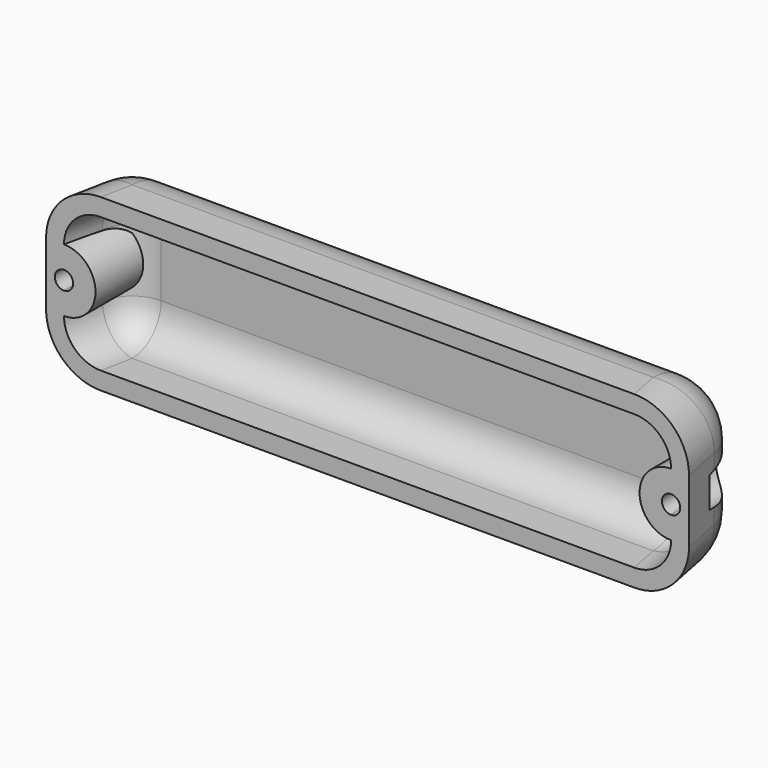
from build123d import *

# Parameters (mm, degrees)
F1_DEPTH = 40
F2_R     = 12.6
F3_T     = -4.129
F5_DEPTH = 14
F6_DEPTH = 20.001
F7_R     = 4.4681980282
F8_DEPTH = 12


with BuildPart() as f1:
    # F0 (on Top) → F1 (new body)
    with BuildSketch(Plane.XY):
        Polygon((-75.5, -10), (75.5, -10), (71.5217526524, 10), (-71.5217526524, 10), align=None)
    extrude(amount=F1_DEPTH)

    # F2
    f2_edges = [f1.edges().sort_by_distance(p)[0] for p in [
        (-71.521753, 10, 20),
        (0, 10, 40),
        (0, 10, 0),
        (71.521753, 10, 20),
        (-73.510876, 0, 40),
        (-73.510876, 0, 0),
        (73.510876, 0, 40),
        (73.510876, 0, 0),
    ]]
    fillet(f2_edges, radius=F2_R)

    # F3
    f3_openings = [f1.faces().sort_by_distance(p)[0] for p in [
        (0, -10, 20),
    ]]
    offset(amount=F3_T, openings=f3_openings)

    # F4 (on face) → F5 (join)
    with BuildSketch(Plane.XZ.offset(10)):
        with BuildLine():
            ThreePointArc((-71.2901081078, 22.15), (-69.7698285282, 21.5202795796), (-69.1401081078, 20))
            ThreePointArc((-69.1401081078, 20), (-69.7698285282, 18.4797204204), (-71.2901081078, 17.85))
            Line((-71.2901081078, 17.85), (-71.2901081078, 12.6))
            ThreePointArc((-71.2901081078, 12.6), (-63.8901081078, 20), (-71.2901081078, 27.4))
            Line((-71.2901081078, 27.4), (-71.2901081078, 22.15))
        make_face()
        with BuildLine():
            Line((71.2901081078, 22.15), (71.2901081078, 27.4))
            ThreePointArc((71.2901081078, 27.4), (63.8901081078, 20), (71.2901081078, 12.6))
            Line((71.2901081078, 12.6), (71.2901081078, 17.85))
            ThreePointArc((71.2901081078, 17.85), (69.1401081078, 20), (71.2901081078, 22.15))
        make_face()
    extrude(amount=-F5_DEPTH)

    # F4 (on face) → F6 (cut, through all)
    with BuildSketch(Plane.XZ.offset(10)):
        with BuildLine():
            ThreePointArc((-71.2901081078, 17.85), (-69.7698285282, 18.4797204204), (-69.1401081078, 20))
            ThreePointArc((-69.1401081078, 20), (-69.7698285282, 21.5202795796), (-71.2901081078, 22.15))
            Line((-71.2901081078, 22.15), (-71.2901081078, 17.85))
        make_face()
        with BuildLine():
            Line((-71.2901081078, 17.85), (-71.2901081078, 22.15))
            ThreePointArc((-71.2901081078, 22.15), (-73.4401081078, 20), (-71.2901081078, 17.85))
        make_face()
        with BuildLine():
            ThreePointArc((73.4401081078, 20), (72.8103876873, 21.5202795796), (71.2901081078, 22.15))
            Line((71.2901081078, 22.15), (71.2901081078, 17.85))
            ThreePointArc((71.2901081078, 17.85), (72.8103876873, 18.4797204204), (73.4401081078, 20))
        make_face()
        with BuildLine():
            Line((71.2901081078, 17.85), (71.2901081078, 22.15))
            ThreePointArc((71.2901081078, 22.15), (69.1401081078, 20), (71.2901081078, 17.85))
        make_face()
    extrude(amount=-F6_DEPTH, mode=Mode.SUBTRACT)

    # F7 (on face) → F8 (cut)
    with BuildSketch(Plane(origin=(0, 10, 0), x_dir=(-1, 0, 0), z_dir=(0, 1, 0))):
        with Locations((71.2666511536, 20.0136322528)):
            Circle(F7_R)
        with Locations((-71.2666511536, 20.0136322528)):
            Circle(F7_R)
    extrude(amount=-F8_DEPTH, mode=Mode.SUBTRACT)


solid = f1.part
